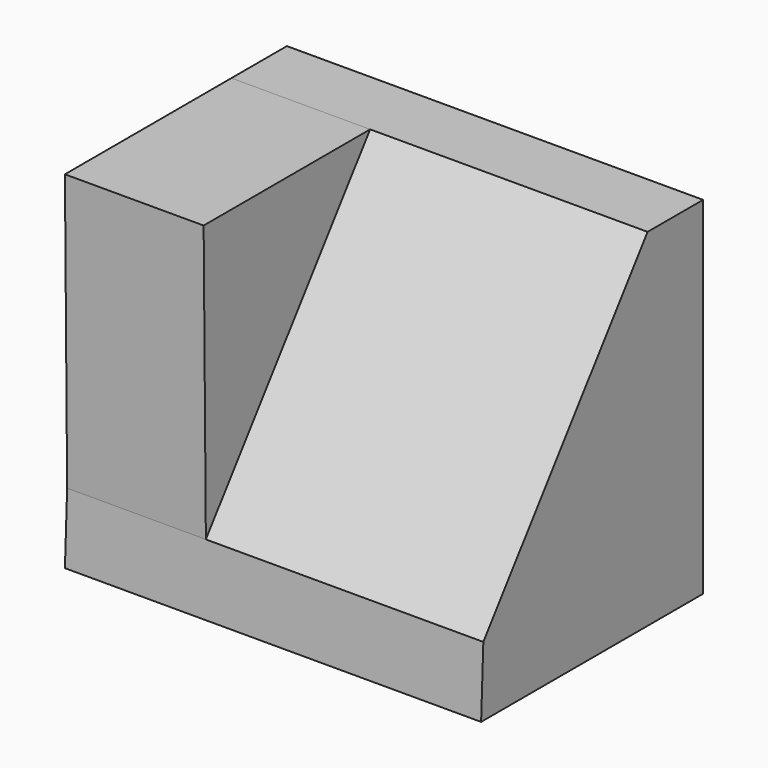
from build123d import *

# Parameters (mm, degrees)
F1_DEPTH = 38.1
F3_DEPTH = 12.7


with BuildPart() as f1:
    # F0 (on Right) → F1 (new body)
    with BuildSketch(Plane.YZ):
        Polygon((-54.048603, -35.997721), (-54.302403, -42.342647), (-28.902403, -42.342647), (-28.902403, -10.592647), (-35.252403, -10.592647), align=None)
    extrude(amount=F1_DEPTH)

    # F2 (on face) → F3 (join)
    with BuildSketch(Plane(origin=(0, 0, 0), x_dir=(0, -1, 0), z_dir=(-1, 0, 0))):
        Polygon((54.302402, -10.598989), (35.252403, -10.592647), (54.048603, -35.997721), align=None)
    extrude(amount=-F3_DEPTH)


solid = f1.part
